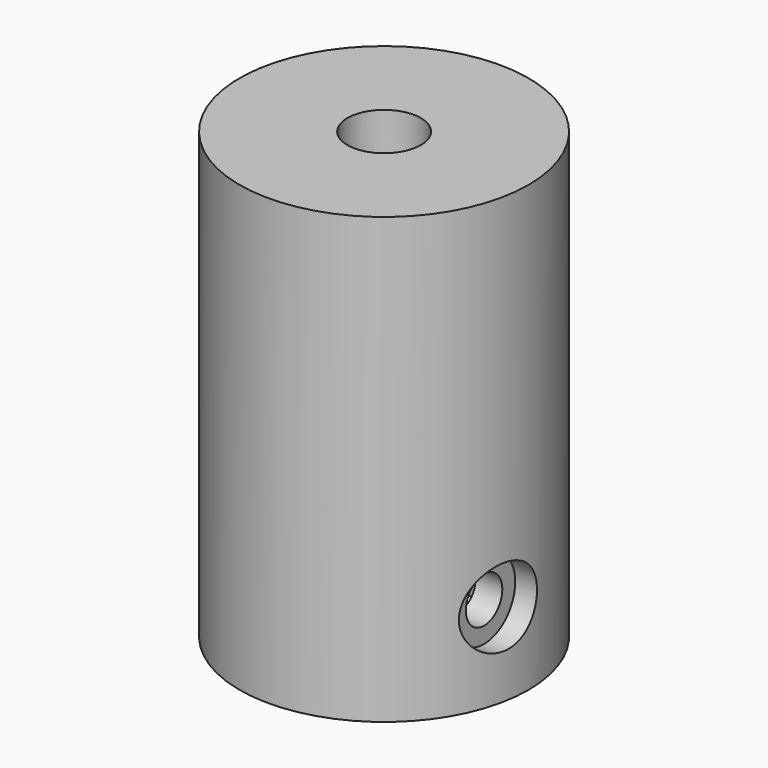
from build123d import *

# Parameters (mm, degrees)
F0_R      = 13
F5_DEPTH  = 20
F4_R      = 8.6
F6_DEPTH  = 23
F3_R      = 3.3
F8_DEPTH  = 8
F9_DEPTH  = 12
F10_R     = 2.05
F11_DEPTH = 15
F12_R     = 1.5
F13_DEPTH = 25
F15_R     = 3.5
F16_DEPTH = 5
F19_DEPTH = 3


with BuildPart() as f5:
    # F0 (on Top) → F5 (new body, symmetric)
    with BuildSketch(Plane.XY):
        Circle(F0_R)
    extrude(amount=F5_DEPTH, both=True)

    # F4 (on offset) → F6 (cut)
    with BuildSketch(Plane.XY.offset(-20)):
        Circle(F4_R)
    extrude(amount=F6_DEPTH, mode=Mode.SUBTRACT)

    # F3 (on offset) → F8 (cut)
    with BuildSketch(Plane.XY.offset(20)):
        with Locations((0.0063437128, 0)):
            Circle(F3_R)
    extrude(amount=-F8_DEPTH, mode=Mode.SUBTRACT)

    # F7 (on Top) → F9 (cut)
    with BuildSketch(Plane.XY):
        with BuildLine():
            Line((1.888, 2.9471097706), (0, 2.9471097706))
            Line((0, 2.9471097706), (-1.888, 2.9471097706))
            ThreePointArc((-1.888, 2.9471097706), (0, -3.5), (1.888, 2.9471097706))
        make_face()
    extrude(amount=F9_DEPTH, mode=Mode.SUBTRACT)

    # F10 (on Right) → F11 (cut, symmetric)
    with BuildSketch(Plane.YZ):
        with Locations((-2.5, -12.5)):
            Circle(F10_R)
    extrude(amount=F11_DEPTH, both=True, mode=Mode.SUBTRACT)

    # F12 (on Front) → F13 (cut)
    with BuildSketch(Plane.XZ):
        with Locations((0, 7)):
            Circle(F12_R)
    extrude(amount=-F13_DEPTH, mode=Mode.SUBTRACT)

    # F15 (on offset) → F16 (cut)
    with BuildSketch(Plane.YZ.offset(11)):
        with Locations((-2.5, -12.5)):
            Circle(F15_R)
    extrude(amount=F16_DEPTH, mode=Mode.SUBTRACT)

    # F18 (on offset) → F19 (cut)
    with BuildSketch(Plane.YZ.offset(-12)):
        Polygon((-5.9460342998, -10.8984858401), (-5.6099690969, -14.683596166), (-2.1639347971, -16.2851103259), (0.9460342998, -14.1015141599), (0.6099690969, -10.316403834), (-2.8360652029, -8.7148896741), align=None)
    extrude(amount=-F19_DEPTH, mode=Mode.SUBTRACT)


solid = f5.part
